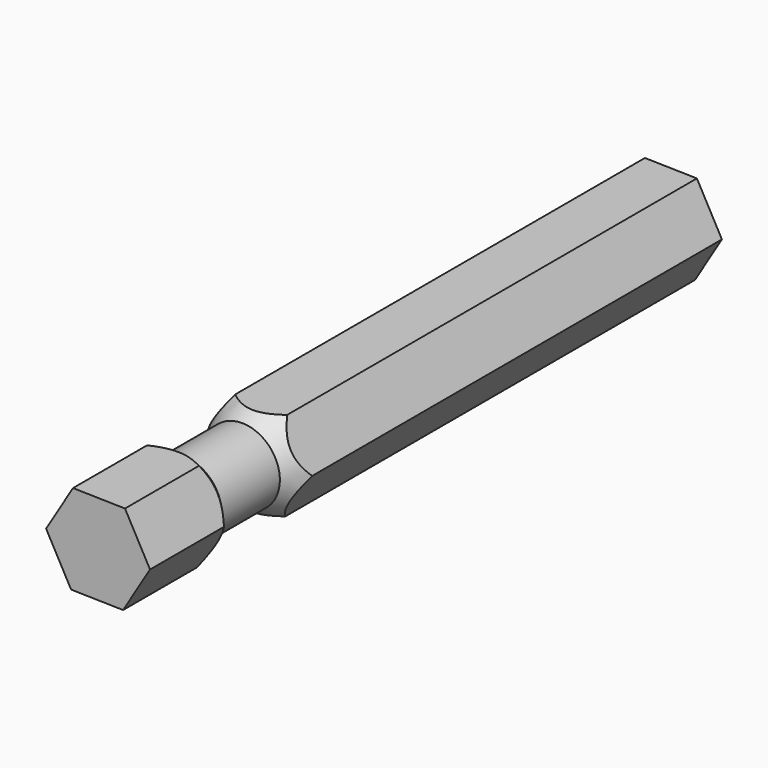
from build123d import *

# Parameters (mm, degrees)
F0_W     = 2.6
F0_H     = 5
F2_R     = 3.75
F3_DEPTH = 65


with BuildPart() as f1:
    # F0 (on Top) → F1 (revolve)
    with BuildSketch(Plane.XY):
        Polygon((-2.6, -5.1), (0, -5.1), (0, 31.73), (-3.75, 31.73), (-3.75, 17.5), (-3.75, -3.27), align=None)
        with Locations((-1.3, -7.6)):
            Rectangle(F0_W, F0_H)
        Polygon((-3.75, -11.31), (-3.75, -17.5), (0, -17.5), (0, -10.1), (-2.6, -10.1), align=None)
    revolve(axis=Axis((0, 7.115, 0), (0, -1, 0)))

    # F2 (on face) → F3 (cut)
    with BuildSketch(Plane.XZ.offset(17.5)):
        Circle(F2_R)
        Polygon((-3.578769, 0.075814), (-1.723728, 3.137212), (1.855041, 3.061398), (3.578769, -0.075814), (1.723728, -3.137212), (-1.855041, -3.061398), align=None, mode=Mode.SUBTRACT)
    extrude(amount=-F3_DEPTH, mode=Mode.SUBTRACT)


solid = f1.part
